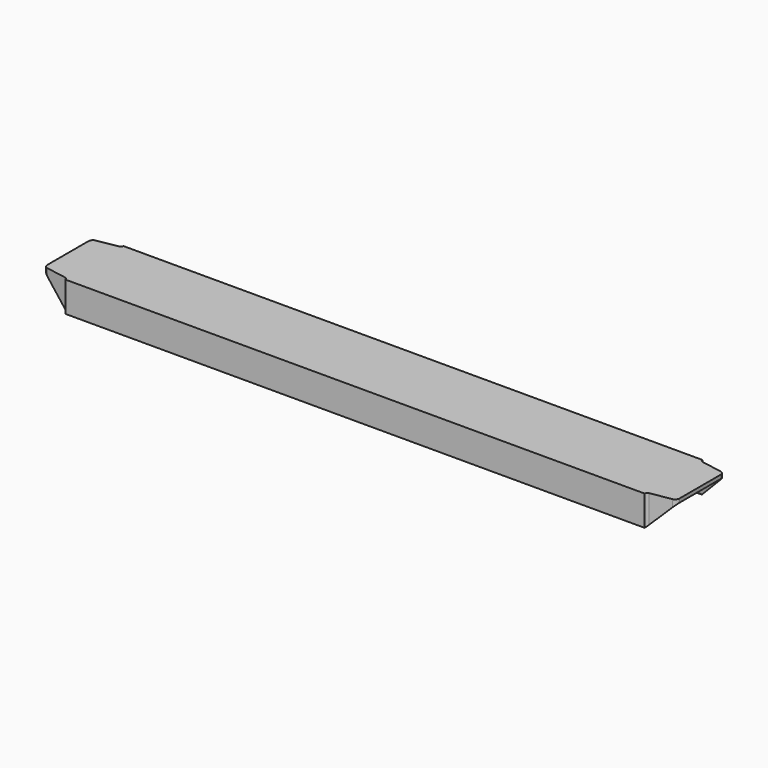
from build123d import *

# Parameters (mm, degrees)
F1_DEPTH = 1342.9996
F3_DEPTH = 63.4248


with BuildPart() as f1:
    # F0 (on Right) → F1 (new body)
    with BuildSketch(Plane.YZ):
        with BuildLine():
            Line((76.2, 0), (-76.2, 0))
            Line((-76.2, 0), (-76.2, -63.4238))
            ThreePointArc((-76.2, -63.4238), (-72.574321, -62.102069), (-70.649887, -58.757061))
            Line((-70.649887, -58.757061), (-63.124886, -15.566335))
            ThreePointArc((-63.124886, -15.566335), (-59.952782, -10.052651), (-53.976459, -7.874))
            Line((-53.976459, -7.874), (53.976459, -7.874))
            ThreePointArc((53.976459, -7.874), (59.952782, -10.052651), (63.124886, -15.566335))
            Line((63.124886, -15.566335), (70.649887, -58.757061))
            ThreePointArc((70.649887, -58.757061), (72.574321, -62.102069), (76.2, -63.4238))
            Line((76.2, -63.4238), (76.2, 0))
        make_face()
    extrude(amount=F1_DEPTH)

    # F2 (on face) → F3 (cut, through all)
    with BuildSketch(Plane.XY):
        with BuildLine():
            Line((1342.9996, -76.2), (1342.9996, 76.2))
            Line((1342.9996, 76.2), (1279.5758, 76.2))
            ThreePointArc((1279.5758, 76.2), (1280.897531, 72.574321), (1284.242539, 70.649887))
            Line((1284.242539, 70.649887), (1327.433265, 63.124886))
            ThreePointArc((1327.433265, 63.124886), (1332.946949, 59.952782), (1335.1256, 53.976459))
            Line((1335.1256, 53.976459), (1335.1256, -53.976459))
            ThreePointArc((1335.1256, -53.976459), (1332.946949, -59.952782), (1327.433265, -63.124886))
            Line((1327.433265, -63.124886), (1284.242539, -70.649887))
            ThreePointArc((1284.242539, -70.649887), (1280.897531, -72.574321), (1279.5758, -76.2))
            Line((1279.5758, -76.2), (1342.9996, -76.2))
        make_face()
        with BuildLine():
            Line((7.874, -53.976459), (7.874, 53.976459))
            ThreePointArc((7.874, 53.976459), (10.052651, 59.952782), (15.566335, 63.124886))
            Line((15.566335, 63.124886), (58.757061, 70.649887))
            ThreePointArc((58.757061, 70.649887), (62.102069, 72.574321), (63.4238, 76.2))
            Line((63.4238, 76.2), (0, 76.2))
            Line((0, 76.2), (0, -76.2))
            Line((0, -76.2), (63.4238, -76.2))
            ThreePointArc((63.4238, -76.2), (62.102069, -72.574321), (58.757061, -70.649887))
            Line((58.757061, -70.649887), (15.566335, -63.124886))
            ThreePointArc((15.566335, -63.124886), (10.052651, -59.952782), (7.874, -53.976459))
        make_face()
    extrude(amount=-F3_DEPTH, mode=Mode.SUBTRACT)


solid = f1.part
